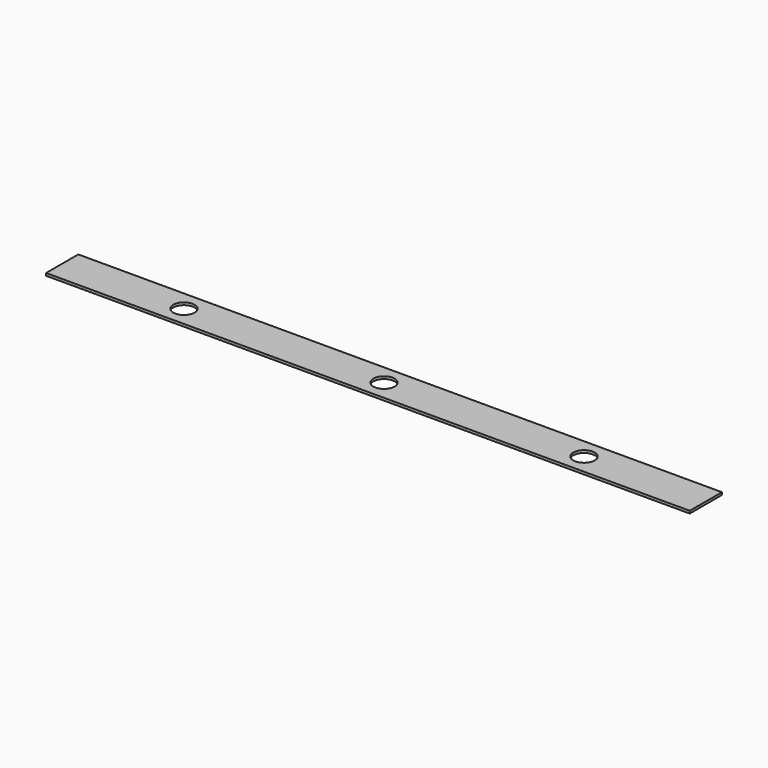
from build123d import *

# Parameters (mm, degrees)
F1_DEPTH = 12.7
F3_D     = 6.7564


with BuildPart() as f1:
    # F0 (on Front) → F1 (new body)
    with BuildSketch(Plane.XZ):
        Polygon((0, 0.79375), (0, 0), (203.2, 0), (203.2, 0.79375), (187.6806, 0.79375), (183.8680549408, 0.79375), (19.3244994099, 0.79375), (15.5119543507, 0.79375), align=None)
    extrude(amount=F1_DEPTH)

    # F3 (through all)
    with Locations(Plane.XY.offset(0.79375)):
        with Locations((101.6, -6.35), (38.4429, -6.35), (164.7444, -6.35)):
            Hole(F3_D / 2)


solid = f1.part
